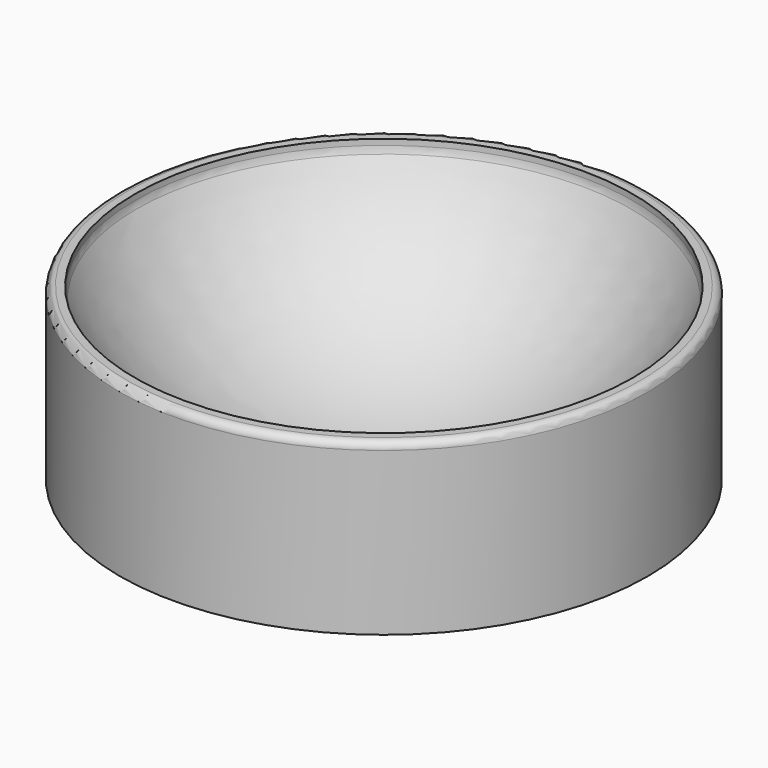
from build123d import *

# Parameters (mm, degrees)
F2_R = 0.4
F3_R = 0.8


with BuildPart() as f1:
    # F0 (on Front) → F1 (revolve)
    with BuildSketch(Plane.XZ):
        with BuildLine():
            Line((-14, 9), (-14, 0))
            Line((-14, 0), (0, 0))
            Line((0, 0), (0, 0.3))
            ThreePointArc((0, 0.3), (-7.769813, 2.516886), (-13.2, 8.5))
            Line((-13.2, 8.5), (-13.2, 9))
            Line((-13.2, 9), (-14, 9))
        make_face()
    revolve(axis=Axis((0, 0, 0.15), (0, 0, -1)))

    # F2
    f2_edges = [f1.edges().sort_by_distance(p)[0] for p in [
        (14, 0, 9),
    ]]
    fillet(f2_edges, radius=F2_R)

    # F3
    f3_edges = [f1.edges().sort_by_distance(p)[0] for p in [
        (13.2, 0, 8.5),
    ]]
    fillet(f3_edges, radius=F3_R)


solid = f1.part
